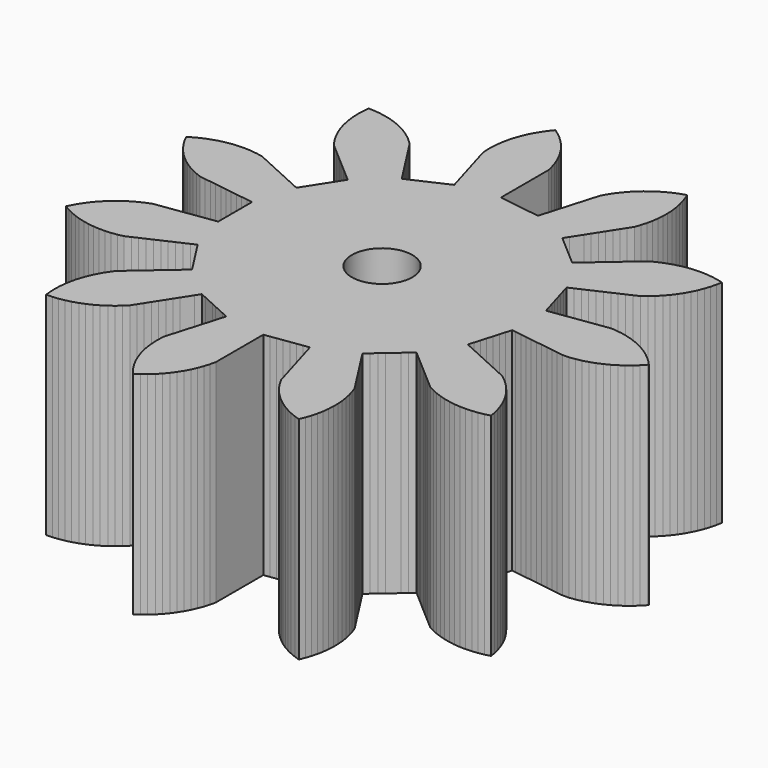
from build123d import *

# Parameters (mm, degrees)
F0_R     = 1
F1_DEPTH = 7


with BuildPart() as f1:
    # F0 (on Top) → F1 (new body)
    with BuildSketch(Plane.XY):
        Polygon((3.416491, -0.896506), (3.47449, -0.69898), (3.604057, -0.717609), (3.798408, -0.745552), (3.992759, -0.773496), (4.18711, -0.801439), (4.381461, -0.829383), (4.575812, -0.857326), (4.770163, -0.88527), (4.964514, -0.913213), (5.158865, -0.941157), (5.353216, -0.9691), (5.571172, -0.966627), (5.767807, -0.938177), (5.949434, -0.901526), (6.140519, -0.847109), (6.315637, -0.786565), (6.497758, -0.707152), (6.663238, -0.623796), (6.833143, -0.520805), (6.986028, -0.416126), (7.140682, -0.291398), (7.278242, -0.167266), (7.414881, -0.023029), (7.436697, 0), (7.300058, 0.144238), (7.165373, 0.271484), (7.01072, 0.396213), (6.86027, 0.504362), (6.690364, 0.607352), (6.526836, 0.694473), (6.344714, 0.773886), (6.171028, 0.838421), (5.979943, 0.892838), (5.799202, 0.933635), (5.602566, 0.962084), (5.417999, 0.978415), (5.223648, 0.950471), (5.029297, 0.922528), (4.834946, 0.894584), (4.640595, 0.866641), (4.446244, 0.838697), (4.251893, 0.810754), (4.057543, 0.78281), (3.863192, 0.754867), (3.668841, 0.726923), (3.47449, 0.69898), (3.418514, 0.889615), (3.362539, 1.080249), (3.306564, 1.270884), (3.250588, 1.461518), (3.194613, 1.652153), (3.138637, 1.842787), (3.080639, 2.040313), (3.259245, 2.121879), (3.43785, 2.203446), (3.616456, 2.285012), (3.795062, 2.366579), (3.973668, 2.448145), (4.152274, 2.529712), (4.330879, 2.611279), (4.509485, 2.692845), (4.688091, 2.774412), (4.866697, 2.855978), (5.023486, 2.97801), (5.163175, 3.099742), (5.302291, 3.241593), (5.424498, 3.380866), (5.543455, 3.540001), (5.645999, 3.694327), (5.742672, 3.867905), (5.82372, 4.034527), (5.896382, 4.219445), (5.954486, 4.395387), (6.00184, 4.588344), (6.035963, 4.770463), (5.843034, 4.817931), (5.660935, 4.852162), (5.463399, 4.873478), (5.278362, 4.883119), (5.201543, 4.883157), (5.003139, 4.87263), (4.81894, 4.852576), (4.623712, 4.815685), (4.443832, 4.771246), (4.255267, 4.708651), (4.08292, 4.640621), (3.904387, 4.553439), (3.741935, 4.439053), (3.589624, 4.311475), (3.439127, 4.181762), (3.288921, 4.051712), (3.13876, 3.921611), (2.988605, 3.791503), (2.83845, 3.661394), (2.688296, 3.531284), (2.538142, 3.401175), (2.374308, 3.259212), (2.324845, 3.216352), (2.17469, 3.346461), (2.024536, 3.47657), (1.874382, 3.60668), (1.724227, 3.736789), (1.574073, 3.866899), (1.423919, 3.997008), (1.268337, 4.131821), (1.374491, 4.297), (1.480646, 4.46218), (1.586801, 4.62736), (1.692955, 4.79254), (1.79911, 4.957719), (1.905264, 5.122899), (2.011419, 5.288079), (2.117573, 5.453259), (2.223728, 5.618438), (2.329883, 5.783618), (2.395807, 5.971045), (2.447507, 6.148974), (2.487848, 6.343518), (2.515359, 6.526752), (2.529397, 6.724938), (2.532227, 6.910205), (2.519711, 7.108492), (2.49781, 7.292482), (2.458963, 7.487329), (2.412722, 7.666755), (2.348238, 7.854682), (2.278483, 8.026338), (2.090518, 7.961965), (1.91882, 7.892312), (1.741118, 7.803448), (1.580242, 7.711521), (1.415978, 7.599753), (1.268798, 7.487193), (1.120905, 7.354519), (0.99005, 7.223337), (0.861171, 7.072126), (0.748978, 6.924666), (0.641415, 6.757619), (0.549888, 6.596514), (0.49457, 6.408118), (0.439252, 6.219722), (0.383934, 6.031326), (0.328616, 5.84293), (0.273298, 5.654534), (0.21798, 5.466138), (0.162662, 5.277742), (0.107344, 5.089346), (0.052026, 4.90095), (-0.003292, 4.712554), (-0.199953, 4.74083), (-0.396613, 4.769105), (-0.593273, 4.797381), (-0.789933, 4.825656), (-0.986594, 4.853932), (-1.183254, 4.882207), (-1.387023, 4.911505), (-1.387023, 5.107854), (-1.387023, 5.304204), (-1.387023, 5.500553), (-1.387023, 5.696903), (-1.387023, 5.893252), (-1.387023, 6.089602), (-1.387023, 6.285951), (-1.387023, 6.482301), (-1.387023, 6.67865), (-1.387023, 6.875), (-1.432895, 7.068315), (-1.485597, 7.245949), (-1.556839, 7.43142), (-1.632759, 7.60044), (-1.728097, 7.774754), (-1.825878, 7.932141), (-1.943611, 8.092184), (-2.061507, 8.235125), (-2.19953, 8.378039), (-2.335435, 8.503982), (-2.491283, 8.627213), (-2.642769, 8.733907), (-2.766093, 8.578132), (-2.872877, 8.426709), (-2.974326, 8.255879), (-3.059963, 8.091569), (-3.137726, 7.908736), (-3.200687, 7.734473), (-3.253373, 7.542903), (-3.292533, 7.361801), (-3.319202, 7.164916), (-3.333862, 6.980209), (-3.334037, 6.781527), (-3.323934, 6.596514), (-3.268616, 6.408118), (-3.213298, 6.219722), (-3.15798, 6.031326), (-3.102662, 5.84293), (-3.047344, 5.654534), (-2.992026, 5.466138), (-2.936708, 5.277742), (-2.88139, 5.089346), (-2.826072, 4.90095), (-2.770754, 4.712554), (-2.951482, 4.630018), (-3.13221, 4.547483), (-3.312938, 4.464947), (-3.493666, 4.382411), (-3.674394, 4.299876), (-3.855122, 4.21734), (-4.042383, 4.131821), (-4.148537, 4.297), (-4.254692, 4.46218), (-4.360847, 4.62736), (-4.467001, 4.79254), (-4.573156, 4.957719), (-4.67931, 5.122899), (-4.785465, 5.288079), (-4.891619, 5.453259), (-4.997774, 5.618438), (-5.103929, 5.783618), (-5.247032, 5.921444), (-5.387405, 6.042387), (-5.54761, 6.159899), (-5.702857, 6.261043), (-5.877302, 6.356141), (-6.044651, 6.435678), (-6.230219, 6.506664), (-6.40668, 6.563175), (-6.600057, 6.608781), (-6.782477, 6.641254), (-6.980209, 6.660665), (-7.165331, 6.668523), (-7.184859, 6.470802), (-7.192826, 6.285685), (-7.185813, 6.087127), (-7.169022, 5.902601), (-7.135593, 5.706751), (-7.094346, 5.526112), (-7.035098, 5.336469), (-6.97013, 5.162945), (-6.886122, 4.982896), (-6.798594, 4.819585), (-6.691326, 4.652348), (-6.582801, 4.502168), (-6.43441, 4.373586), (-6.286019, 4.245004), (-6.137628, 4.116423), (-5.989237, 3.987841), (-5.840846, 3.85926), (-5.692455, 3.730678), (-5.544064, 3.602096), (-5.395673, 3.473515), (-5.247282, 3.344933), (-5.098891, 3.216352), (-5.206306, 3.049209), (-5.313722, 2.882067), (-5.421138, 2.714924), (-5.528554, 2.547782), (-5.63597, 2.380639), (-5.743386, 2.213497), (-5.854685, 2.040313), (-6.033291, 2.121879), (-6.211896, 2.203446), (-6.390502, 2.285012), (-6.569108, 2.366579), (-6.747714, 2.448145), (-6.92632, 2.529712), (-7.104925, 2.611279), (-7.283531, 2.692845), (-7.462137, 2.774412), (-7.640743, 2.855978), (-7.835644, 2.894558), (-8.01912, 2.92041), (-8.217425, 2.932654), (-8.325903, 2.935236), (-8.524381, 2.926231), (-8.708729, 2.907591), (-8.904234, 2.872199), (-9.08445, 2.829141), (-9.273489, 2.767994), (-9.446353, 2.701289), (-9.62555, 2.615479), (-9.787975, 2.526317), (-9.85332, 2.485929), (-9.762853, 2.309038), (-9.669473, 2.149001), (-9.556224, 1.985754), (-9.442337, 1.839599), (-9.30833, 1.692913), (-9.17597, 1.56325), (-9.023599, 1.435744), (-8.87513, 1.32489), (-8.707116, 1.218842), (-8.54519, 1.128777), (-8.364535, 1.046082), (-8.192045, 0.978415), (-7.997694, 0.950471), (-7.803343, 0.922528), (-7.608992, 0.894584), (-7.414641, 0.866641), (-7.22029, 0.838697), (-7.025939, 0.810754), (-6.831589, 0.78281), (-6.637238, 0.754867), (-6.442887, 0.726923), (-6.248536, 0.69898), (-6.248536, 0.500297), (-6.248536, 0.301615), (-6.248536, 0.102932), (-6.248536, -0.09575), (-6.248536, -0.294433), (-6.248536, -0.493115), (-6.248536, -0.69898), (-6.442887, -0.726923), (-6.637238, -0.754867), (-6.831589, -0.78281), (-7.025939, -0.810754), (-7.22029, -0.838697), (-7.414641, -0.866641), (-7.608992, -0.894584), (-7.803343, -0.922528), (-7.997694, -0.950471), (-8.192045, -0.978415), (-8.376864, -1.051331), (-8.54519, -1.128777), (-8.718635, -1.225689), (-8.87513, -1.32489), (-9.034102, -1.444065), (-9.17597, -1.56325), (-9.31763, -1.70256), (-9.442337, -1.839599), (-9.564154, -1.996556), (-9.669473, -2.149001), (-9.769271, -2.320801), (-9.85332, -2.485929), (-9.68158, -2.585829), (-9.516501, -2.669976), (-9.332972, -2.746081), (-9.158147, -2.807463), (-8.966109, -2.858413), (-8.784659, -2.895933), (-8.587541, -2.92082), (-8.402709, -2.933808), (-8.204033, -2.932186), (-8.01912, -2.92041), (-7.822434, -2.892308), (-7.640743, -2.855978), (-7.462137, -2.774412), (-7.283531, -2.692845), (-7.104925, -2.611279), (-6.92632, -2.529712), (-6.747714, -2.448145), (-6.569108, -2.366579), (-6.390502, -2.285012), (-6.211896, -2.203446), (-6.033291, -2.121879), (-5.854685, -2.040313), (-5.747269, -2.207455), (-5.639853, -2.374598), (-5.532437, -2.54174), (-5.425021, -2.708882), (-5.317605, -2.876025), (-5.210189, -3.043167), (-5.098891, -3.216352), (-5.247282, -3.344933), (-5.395673, -3.473515), (-5.544064, -3.602096), (-5.692455, -3.730678), (-5.840846, -3.85926), (-5.989237, -3.987841), (-6.137628, -4.116423), (-6.286019, -4.245004), (-6.43441, -4.373586), (-6.582801, -4.502168), (-6.698859, -4.663429), (-6.798594, -4.819585), (-6.89211, -4.994883), (-6.97013, -5.162945), (-7.039434, -5.349148), (-7.094346, -5.526112), (-7.1382, -5.719894), (-7.169022, -5.902601), (-7.186644, -6.100501), (-7.192826, -6.285685), (-7.183899, -6.484167), (-7.165331, -6.668523), (-6.966844, -6.659713), (-6.782477, -6.641254), (-6.586938, -6.606055), (-6.40668, -6.563175), (-6.217581, -6.502213), (-6.044651, -6.435678), (-5.86537, -6.350044), (-5.702857, -6.261043), (-5.536597, -6.152266), (-5.387405, -6.042387), (-5.237136, -5.912411), (-5.103929, -5.783618), (-4.997774, -5.618438), (-4.891619, -5.453259), (-4.785465, -5.288079), (-4.67931, -5.122899), (-4.573156, -4.957719), (-4.467001, -4.79254), (-4.360847, -4.62736), (-4.254692, -4.46218), (-4.148537, -4.297), (-4.042383, -4.131821), (-3.861655, -4.214356), (-3.680927, -4.296892), (-3.500199, -4.379428), (-3.319471, -4.461963), (-3.138743, -4.544499), (-2.958015, -4.627035), (-2.770754, -4.712554), (-2.826072, -4.90095), (-2.88139, -5.089346), (-2.936708, -5.277742), (-2.992026, -5.466138), (-3.047344, -5.654534), (-3.102662, -5.84293), (-3.15798, -6.031326), (-3.213298, -6.219722), (-3.268616, -6.408118), (-3.323934, -6.596514), (-3.334384, -6.794922), (-3.333862, -6.980209), (-3.317759, -7.178238), (-3.292533, -7.361801), (-3.250166, -7.555914), (-3.200687, -7.734473), (-3.132813, -7.921203), (-3.059963, -8.091569), (-2.967795, -8.267579), (-2.872877, -8.426709), (-2.75806, -8.588856), (-2.642769, -8.733907), (-2.480554, -8.619186), (-2.335435, -8.503982), (-2.189967, -8.368653), (-2.061507, -8.235125), (-1.935385, -8.081607), (-1.825878, -7.932141), (-1.721355, -7.763174), (-1.632759, -7.60044), (-1.551701, -7.419045), (-1.485597, -7.245949), (-1.429453, -7.055364), (-1.387023, -6.875), (-1.387023, -6.67865), (-1.387023, -6.482301), (-1.387023, -6.285951), (-1.387023, -6.089602), (-1.387023, -5.893252), (-1.387023, -5.696903), (-1.387023, -5.500553), (-1.387023, -5.304204), (-1.387023, -5.107854), (-1.387023, -4.911505), (-1.190363, -4.883229), (-0.993702, -4.854954), (-0.797042, -4.826678), (-0.600382, -4.798403), (-0.403722, -4.770127), (-0.207061, -4.741852), (-0.003292, -4.712554), (0.052026, -4.90095), (0.107344, -5.089346), (0.162662, -5.277742), (0.21798, -5.466138), (0.273298, -5.654534), (0.328616, -5.84293), (0.383934, -6.031326), (0.439252, -6.219722), (0.49457, -6.408118), (0.549888, -6.596514), (0.648365, -6.769075), (0.748978, -6.924666), (0.869587, -7.082553), (0.99005, -7.223337), (1.130636, -7.363731), (1.268798, -7.487193), (1.426851, -7.607585), (1.580242, -7.711521), (1.752938, -7.80976), (1.91882, -7.892312), (2.103074, -7.966644), (2.278483, -8.026338), (2.352924, -7.842128), (2.412722, -7.666755), (2.461933, -7.474263), (2.49781, -7.292482), (2.520912, -7.095147), (2.532227, -6.910205), (2.528808, -6.711551), (2.515359, -6.526752), (2.485479, -6.330329), (2.447507, -6.148974), (2.3917, -5.95829), (2.329883, -5.783618), (2.223728, -5.618438), (2.117573, -5.453259), (2.011419, -5.288079), (1.905264, -5.122899), (1.79911, -4.957719), (1.692955, -4.79254), (1.586801, -4.62736), (1.480646, -4.46218), (1.374491, -4.297), (1.268337, -4.131821), (1.418491, -4.001711), (1.568645, -3.871602), (1.7188, -3.741492), (1.868954, -3.611383), (2.019108, -3.481274), (2.169262, -3.351164), (2.324845, -3.216352), (2.473236, -3.344933), (2.621627, -3.473515), (2.770018, -3.602096), (2.918409, -3.730678), (3.0668, -3.85926), (3.215191, -3.987841), (3.363582, -4.116423), (3.511973, -4.245004), (3.660364, -4.373586), (3.808755, -4.502168), (3.984892, -4.594094), (4.153653, -4.67059), (4.340475, -4.738207), (4.517929, -4.791515), (4.7121, -4.833615), (4.895078, -4.862783), (5.093129, -4.878613), (5.278362, -4.883119), (5.476755, -4.872397), (5.660935, -4.852162), (5.856126, -4.815079), (6.035963, -4.770463), (5.998995, -4.57525), (5.954486, -4.395387), (5.891817, -4.206847), (5.82372, -4.034527), (5.736467, -3.856028), (5.645999, -3.694327), (5.535722, -3.529058), (5.424498, -3.380866), (5.293168, -3.231779), (5.163175, -3.099742), (5.013136, -2.9695), (4.866697, -2.855978), (4.688091, -2.774412), (4.509485, -2.692845), (4.330879, -2.611279), (4.152274, -2.529712), (3.973668, -2.448145), (3.795062, -2.366579), (3.616456, -2.285012), (3.43785, -2.203446), (3.259245, -2.121879), (3.080639, -2.040313), (3.136614, -1.849678), (3.192589, -1.659044), (3.248565, -1.468409), (3.30454, -1.277775), (3.360515, -1.08714), align=None)
        with Locations((-1.387023, 0)):
            Circle(F0_R, mode=Mode.SUBTRACT)
    extrude(amount=F1_DEPTH)


solid = f1.part
